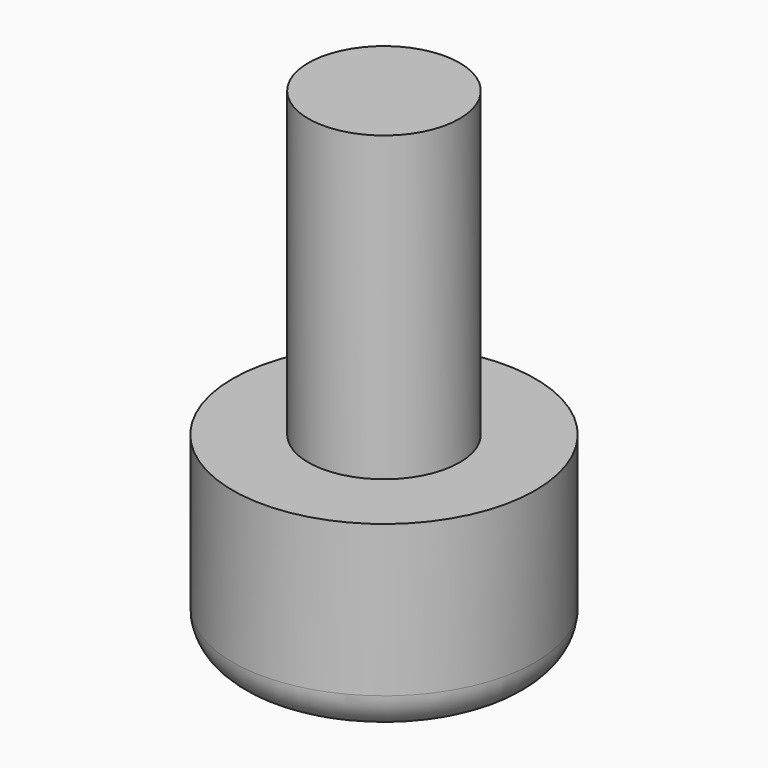
from build123d import *

# Parameters (mm, degrees)
F0_R     = 20
F1_DEPTH = 25
F2_R     = 10
F3_DEPTH = 40
F4_R     = 5


with BuildPart() as f1:
    # F0 (on Top) → F1 (new body)
    with BuildSketch(Plane.XY):
        Circle(F0_R)
    extrude(amount=-F1_DEPTH)

    # F2 (on Top) → F3 (join)
    with BuildSketch(Plane.XY):
        Circle(F2_R)
    extrude(amount=F3_DEPTH)

    # F4
    f4_edges = [f1.edges().sort_by_distance(p)[0] for p in [
        (-20, 0, -25),
    ]]
    fillet(f4_edges, radius=F4_R)


solid = f1.part
